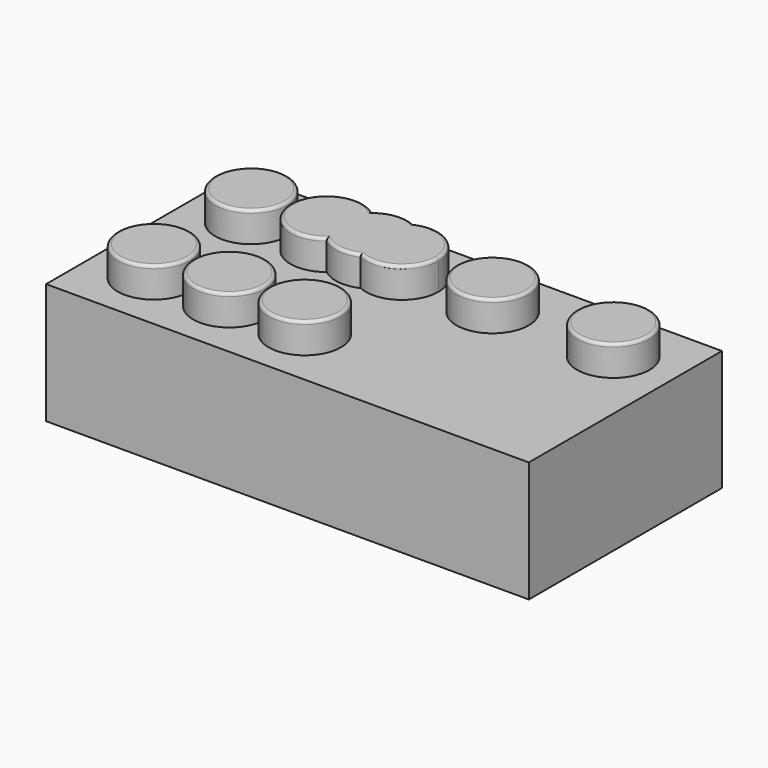
from build123d import *

# Parameters (mm, degrees)
F0_W     = 160
F0_H     = 80
F1_DEPTH = 40
F2_W     = 144
F2_H     = 64
F3_DEPTH = 30
F4_R     = 12
F5_DEPTH = 10
F6_R     = 1


with BuildPart() as f1:
    # F0 (on Top) → F1 (new body)
    with BuildSketch(Plane.XY):
        with Locations((0.1699122787, 9.2159071565)):
            Rectangle(F0_W, F0_H)
    extrude(amount=F1_DEPTH)

    # F2 (on face) → F3 (cut)
    with BuildSketch(Plane(origin=(0, 0, 0), x_dir=(1, 0, 0), z_dir=(0, 0, -1))):
        with Locations((0.1699122787, -9.2159071565)):
            Rectangle(F2_W, F2_H)
    extrude(amount=-F3_DEPTH, mode=Mode.SUBTRACT)

    # F4 (on face) → F5 (join)
    with BuildSketch(Plane.XY.offset(40)):
        with Locations((-59.8300877213, 29.2159071565)):
            Circle(F4_R)
        with BuildLine():
            ThreePointArc((-14.8300877213, 18.3071950418), (-9.730582783, 22.7351664581), (-7.8300877213, 29.2159071565))
            ThreePointArc((-7.8300877213, 29.2159071565), (-9.730582783, 35.6966478549), (-14.8300877213, 40.1246192711))
            ThreePointArc((-14.8300877213, 40.1246192711), (-21.8300877213, 29.2159071565), (-14.8300877213, 18.3071950418))
        make_face()
        with BuildLine():
            ThreePointArc((-14.8300877213, 40.1246192711), (-9.730582783, 35.6966478549), (-7.8300877213, 29.2159071565))
            ThreePointArc((-7.8300877213, 29.2159071565), (-9.730582783, 22.7351664581), (-14.8300877213, 18.3071950418))
            ThreePointArc((-14.8300877213, 18.3071950418), (-3.3493470229, 19.1164022181), (2.1699122787, 29.2159071565))
            ThreePointArc((2.1699122787, 29.2159071565), (-3.3493470229, 39.3154120948), (-14.8300877213, 40.1246192711))
        make_face()
        with BuildLine():
            ThreePointArc((-14.8300877213, 18.3071950418), (-21.8300877213, 29.2159071565), (-14.8300877213, 40.1246192711))
            ThreePointArc((-14.8300877213, 40.1246192711), (-21.298534523, 41.1257209246), (-27.3300877213, 38.5834041541))
            ThreePointArc((-27.3300877213, 38.5834041541), (-24.013433895, 34.4120595792), (-22.8300877213, 29.2159071565))
            ThreePointArc((-22.8300877213, 29.2159071565), (-24.013433895, 24.0197547338), (-27.3300877213, 19.8484101589))
            ThreePointArc((-27.3300877213, 19.8484101589), (-21.298534523, 17.3060933884), (-14.8300877213, 18.3071950418))
        make_face()
        with BuildLine():
            ThreePointArc((-22.8300877213, 29.2159071565), (-24.013433895, 34.4120595792), (-27.3300877213, 38.5834041541))
            ThreePointArc((-27.3300877213, 38.5834041541), (-31.8300877213, 29.2159071565), (-27.3300877213, 19.8484101589))
            ThreePointArc((-27.3300877213, 19.8484101589), (-24.013433895, 24.0197547338), (-22.8300877213, 29.2159071565))
        make_face()
        with BuildLine():
            ThreePointArc((-27.3300877213, 19.8484101589), (-31.8300877213, 29.2159071565), (-27.3300877213, 38.5834041541))
            ThreePointArc((-27.3300877213, 38.5834041541), (-46.8300877213, 29.2159071565), (-27.3300877213, 19.8484101589))
        make_face()
        with Locations((20.1699122787, 29.2159071565)):
            Circle(F4_R)
        with Locations((60.1699122787, 29.2159071565)):
            Circle(F4_R)
        with Locations((-60.0868802166, -10.7832685552)):
            Circle(F4_R)
        with Locations((-35.0868802166, -10.7832685552)):
            Circle(F4_R)
        with Locations((-10.0868802166, -10.7832685552)):
            Circle(F4_R)
    extrude(amount=F5_DEPTH)

    # F6
    f6_edges = [f1.edges().sort_by_distance(p)[0] for p in [
        (8.169912, 29.215907, 50),
        (48.169912, 29.215907, 50),
        (2.169912, 29.215907, 50),
        (-21.298535, 41.125721, 50),
        (-46.830088, 29.215907, 50),
        (-21.298535, 17.306093, 50),
        (-71.830088, 29.215907, 50),
        (-72.08688, -10.783269, 50),
        (-47.08688, -10.783269, 50),
        (-22.08688, -10.783269, 50),
    ]]
    fillet(f6_edges, radius=F6_R)


solid = f1.part
